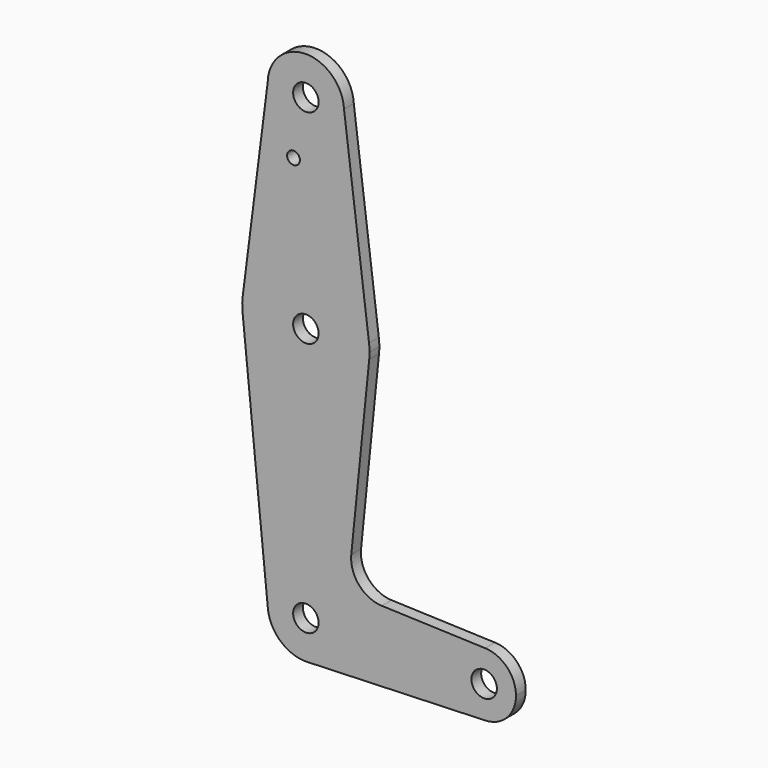
from build123d import *

# Parameters (mm, degrees)
F0_R     = 3.175
F0_R_2   = 1.5875
F1_DEPTH = 3.048


with BuildPart() as f1:
    # F0 (on Front) → F1 (new body)
    with BuildSketch(Plane.XZ):
        with BuildLine():
            ThreePointArc((-9.522247, 56.761033), (-0.1145, 47.007738), (9.525, 56.53205))
            ThreePointArc((9.525, 56.53205), (9.521722, 56.781921), (9.51189, 57.031621))
            ThreePointArc((9.51189, 57.031621), (-0.135393, 66.056087), (-9.522247, 56.761033))
        make_face()
        with Locations((0, 56.53205)):
            Circle(F0_R, mode=Mode.SUBTRACT)
        with BuildLine():
            ThreePointArc((9.51189, 57.031621), (9.521722, 56.781921), (9.525, 56.53205))
            ThreePointArc((9.525, 56.53205), (-0.1145, 47.007738), (-9.522247, 56.761033))
            Line((-9.522247, 56.761033), (-15.748521, 7.731978))
            ThreePointArc((-15.748521, 7.731978), (0.003804, 21.607049), (15.749477, 7.724431))
            Line((15.749477, 7.724431), (9.51189, 57.031621))
        make_face()
        with Locations((-3.080825, 42.25725)):
            Circle(F0_R_2, mode=Mode.SUBTRACT)
        with BuildLine():
            ThreePointArc((15.875, 5.73205), (15.843588, 6.730216), (15.749477, 7.724431))
            ThreePointArc((15.749477, 7.724431), (0.003804, 21.607049), (-15.748521, 7.731978))
            ThreePointArc((-15.748521, 7.731978), (-15.874097, 5.562706), (-15.702271, 3.396606))
            ThreePointArc((-15.702271, 3.396606), (0.372833, -10.138571), (15.794618, 4.136532))
            ThreePointArc((15.794618, 4.136532), (15.854892, 4.933279), (15.875, 5.73205))
        make_face()
        with Locations((0, 5.73205)):
            Circle(F0_R, mode=Mode.SUBTRACT)
        with BuildLine():
            ThreePointArc((15.794618, 4.136532), (0.372833, -10.138571), (-15.702271, 3.396606))
            Line((-15.702271, 3.396606), (-9.477528, -58.717734))
            ThreePointArc((-9.477528, -58.717734), (-0.475485, -48.254826), (9.525, -57.76795))
            ThreePointArc((9.525, -57.76795), (6.854408, -64.381778), (0.340179, -67.286874))
            Line((0.340179, -67.286874), (44.733482, -65.700386))
            ThreePointArc((44.733482, -65.700386), (36.5125, -57.768489), (44.732405, -49.835476))
            Line((44.732405, -49.835476), (18.945685, -48.917438))
            ThreePointArc((18.945685, -48.917438), (13.237235, -46.198161), (11.318598, -40.173237))
            Line((11.318598, -40.173237), (15.794618, 4.136532))
        make_face()
        with BuildLine():
            ThreePointArc((9.525, -57.76795), (-0.475485, -48.254826), (-9.477528, -58.717734))
            ThreePointArc((-9.477528, -58.717734), (-6.263412, -64.943973), (0.340179, -67.286874))
            ThreePointArc((0.340179, -67.286874), (6.854408, -64.381778), (9.525, -57.76795))
        make_face()
        with Locations((0, -57.76795)):
            Circle(F0_R, mode=Mode.SUBTRACT)
        with BuildLine():
            ThreePointArc((44.732405, -49.835476), (36.5125, -57.768489), (44.733482, -65.700386))
            ThreePointArc((44.733482, -65.700386), (50.162007, -63.279473), (52.3875, -57.76795))
            ThreePointArc((52.3875, -57.76795), (50.161633, -52.25604), (44.732405, -49.835476))
        make_face()
        with Locations((44.45, -57.76795)):
            Circle(F0_R, mode=Mode.SUBTRACT)
    extrude(amount=F1_DEPTH)


solid = f1.part
